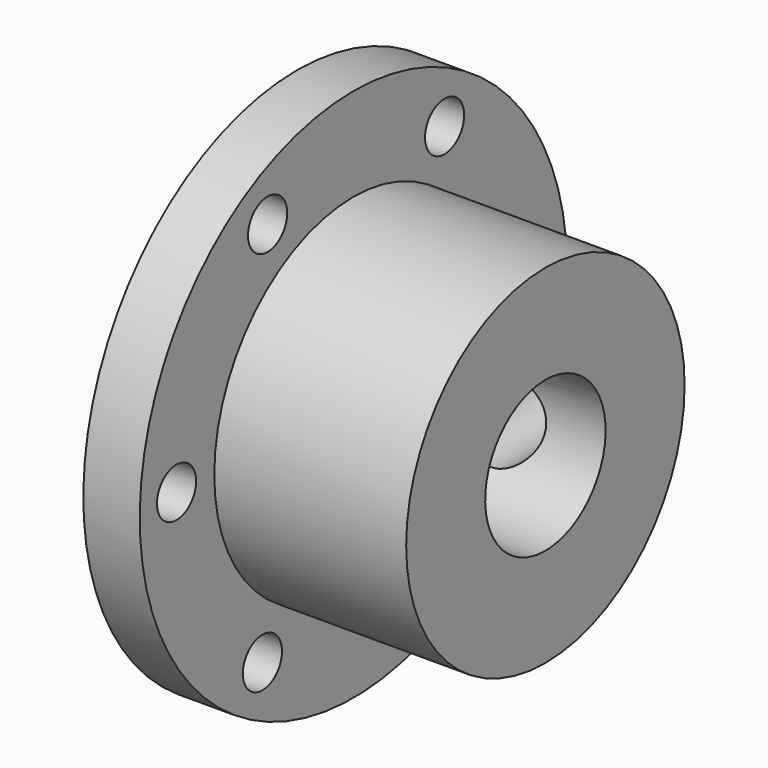
from build123d import *

# Parameters (mm, degrees)
F3_D     = 5.2
F5_D     = 8
F5_DEPTH = 28.401


with BuildPart() as f1:
    # F0 (on Front) → F1 (revolve)
    with BuildSketch(Plane.XZ):
        Polygon((-32.6399943951, 7.8358277731), (-32.6399943951, -12.5641722269), (-6.2399943951, -12.5641722269), (-6.2399943951, -2.0641722269), (-26.6399943951, -2.0641722269), (-26.6399943951, 7.8358277731), align=None)
    revolve(axis=Axis((0, 0, -20.5641722269), (-1, 0, 0)))

    # F3 (through all)
    with Locations(Plane.YZ.offset(-26.6399943951)):
        with Locations((-11.4125286283, 0), (12.1028312422, -0.3985464), (23.5153598705, -20.9627186269), (11.4125286283, -41.1283444539), (-12.1028312422, -40.7297980539), (-23.5153598705, -20.165625827)):
            Hole(F3_D / 2)

    # F5 (through all, one way)
    with BuildSketch(Plane.XZ):
        with Locations((-16.4399943951, -22.3195198923)):
            Circle(F5_D / 2)
    extrude(amount=-F5_DEPTH, mode=Mode.SUBTRACT)


solid = f1.part
